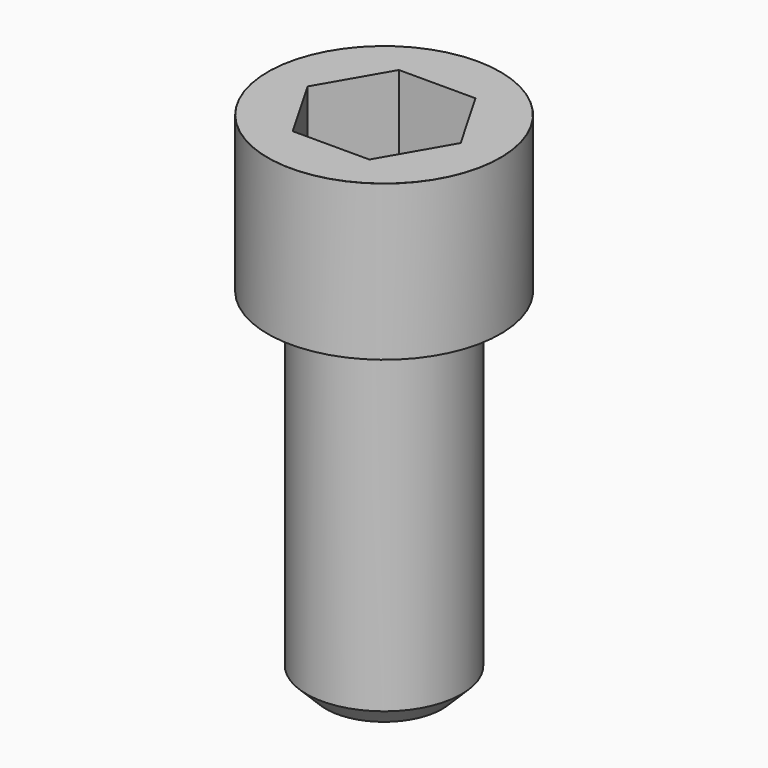
from build123d import *

# Parameters (mm, degrees)
POCKET_DEPTH = 17.1


with BuildPart() as part:
    # Sketch → Revolve (revolve)
    with BuildSketch(Plane.YZ):
        with BuildLine():
            Line((9.999, 0), (15, 0))
            Line((15, 0), (15, 19.97229))
            ThreePointArc((15, 19.97229), (14.991884, 19.991884), (14.97229, 20))
            Line((14.97229, 20), (0, 20))
            Line((0, -45), (0, 20))
            Line((7.5, -45), (0, -45))
            Line((10, -42.5), (7.5, -45))
            Line((10, -0.2), (10, -42.5))
            Line((9.999, 0), (10, -0.2))
        make_face()
    revolve(axis=Axis((0, 0, 0), (0, 0, 1)))

    # Sketch001 → Pocket (cut)
    with BuildSketch(Plane.XY.offset(20)):
        Polygon((9.87269, 0), (4.936345, 8.55), (-4.936345, 8.55), (-9.87269, 0), (-4.936345, -8.55), (4.936345, -8.55), align=None)
    extrude(amount=-POCKET_DEPTH, mode=Mode.SUBTRACT)


solid = part.part
